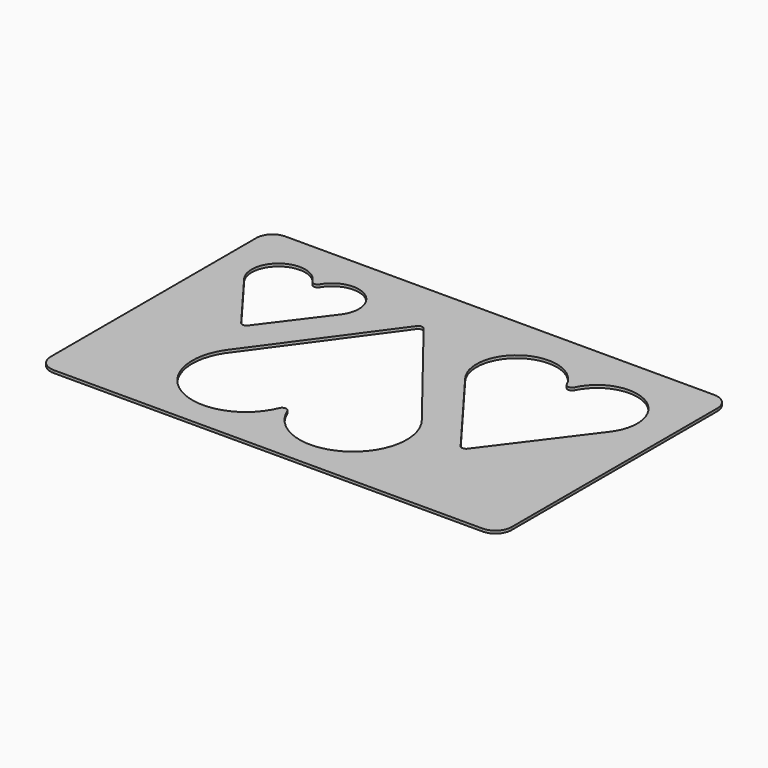
from build123d import *

# Parameters (mm, degrees)
F1_DEPTH = 0.5


with BuildPart() as f1:
    # F0 (on Top) → F1 (new body)
    with BuildSketch(Plane.XY):
        with BuildLine():
            ThreePointArc((-43.000006, -23.10307), (-42.121326, -25.22439), (-40.000006, -26.10307))
            Line((-40.000006, -26.10307), (39.999994, -26.10307))
            ThreePointArc((39.999994, -26.10307), (42.121315, -25.22439), (42.999994, -23.10307))
            Line((42.999994, -23.10307), (42.999994, 24.89693))
            ThreePointArc((42.999994, 24.89693), (42.121315, 27.01825), (39.999994, 27.89693))
            Line((39.999994, 27.89693), (-40.000006, 27.89693))
            ThreePointArc((-40.000006, 27.89693), (-42.121326, 27.01825), (-43.000006, 24.89693))
            Line((-43.000006, 24.89693), (-43.000006, -23.10307))
        make_face()
        with BuildLine():
            ThreePointArc((-6.868054, -14.916313), (-20.804339, -19.978121), (-24.45856, -5.608409))
            Line((-24.45856, -5.608409), (-7.408282, 17.778924))
            ThreePointArc((-7.408282, 17.778924), (-6.776064, 18.107514), (-6.13256, 17.801615))
            Line((-6.13256, 17.801615), (11.738642, -4.964576))
            ThreePointArc((11.738642, -4.964576), (8.897087, -19.785383), (-5.386572, -14.916313))
            ThreePointArc((-5.386572, -14.916313), (-6.127313, -14.418477), (-6.868054, -14.916313))
        make_face(mode=Mode.SUBTRACT)
        with BuildLine():
            Line((-27.981492, 2.562568), (-36.341492, 13.709235))
            ThreePointArc((-36.341492, 13.709235), (-35.112817, 20.870936), (-28.031147, 19.24319))
            ThreePointArc((-28.031147, 19.24319), (-27.341492, 18.848623), (-26.651837, 19.24319))
            ThreePointArc((-26.651837, 19.24319), (-19.570167, 20.870936), (-18.341492, 13.709235))
            Line((-18.341492, 13.709235), (-26.701492, 2.562568))
            ThreePointArc((-26.701492, 2.562568), (-27.341492, 2.242568), (-27.981492, 2.562568))
        make_face(mode=Mode.SUBTRACT)
        with BuildLine():
            Line((21.260952, -7.819025), (8.400952, 9.327642))
            ThreePointArc((8.400952, 9.327642), (10.525126, 20.248544), (21.17806, 17.040243))
            ThreePointArc((21.17806, 17.040243), (21.900952, 16.58292), (22.623843, 17.040243))
            ThreePointArc((22.623843, 17.040243), (33.276778, 20.248544), (35.400952, 9.327642))
            Line((35.400952, 9.327642), (22.540952, -7.819025))
            ThreePointArc((22.540952, -7.819025), (21.900952, -8.139025), (21.260952, -7.819025))
        make_face(mode=Mode.SUBTRACT)
    extrude(amount=F1_DEPTH)


solid = f1.part
